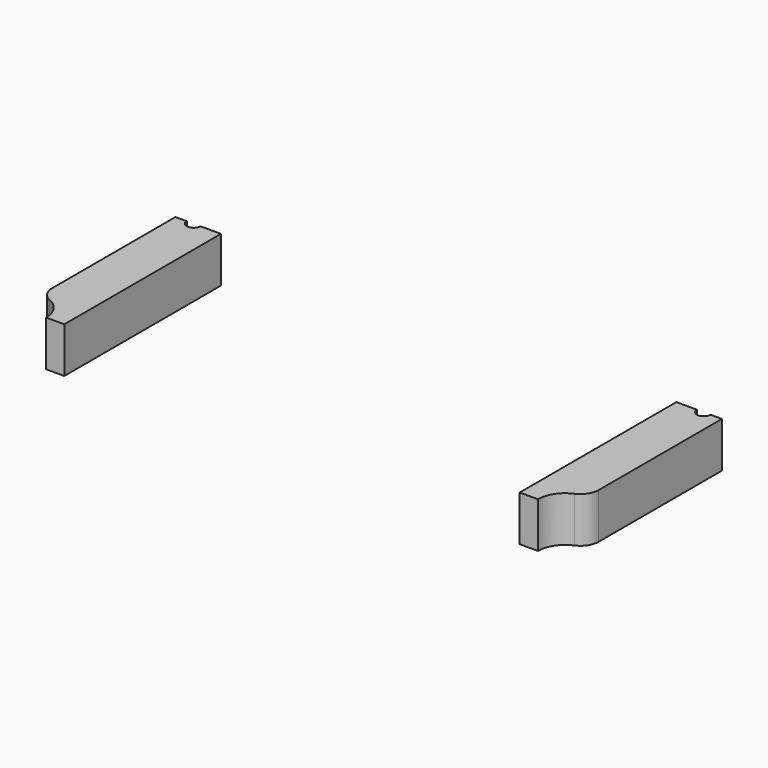
from build123d import *

# Parameters (mm, degrees)
CYLINDER895_R               = 6
CYLINDER895_DEPTH           = 10
CYLINDER889_R               = 6
CYLINDER889_DEPTH           = 10
CYLINDER899_R               = 1.5
CYLINDER899_DEPTH           = 20
CYLINDER899_PLACEMENT_ANGLE = 45
CYLINDER892_R               = 1.5
CYLINDER892_DEPTH           = 20
CYLINDER886_R               = 1.5
CYLINDER886_DEPTH           = 20
CYLINDER886_PLACEMENT_ANGLE = 135
CYLINDER893_R               = 1.5
CYLINDER893_DEPTH           = 20
CYLINDER891_R               = 1.5
CYLINDER891_DEPTH           = 20
CYLINDER891_PLACEMENT_ANGLE = 225
CYLINDER894_R               = 1.5
CYLINDER894_DEPTH           = 20
CYLINDER890_R               = 1.5
CYLINDER890_DEPTH           = 20
CYLINDER890_PLACEMENT_ANGLE = 45
CYLINDER887_R               = 1.5
CYLINDER887_DEPTH           = 20
BOX400_W                    = 10
BOX400_H                    = 43
BOX400_DEPTH                = 10
BOX405_W                    = 10
BOX405_H                    = 43
BOX405_DEPTH                = 10
FILLET015_R                 = 4


with BuildPart() as obj1:
    # Cylinder895 → Cylinder895 (new body)
    with BuildSketch(Plane(origin=(-60, -43, 10), x_dir=(1, 0, 0), z_dir=(0, 0, 1))):
        Circle(CYLINDER895_R)
    extrude(amount=CYLINDER895_DEPTH)


with BuildPart() as compound777:
    # Cylinder889 → Cylinder889 (new body)
    with BuildSketch(Plane(origin=(60, -43, 10), x_dir=(1, 0, 0), z_dir=(0, 0, 1))):
        Circle(CYLINDER889_R)
    extrude(amount=CYLINDER889_DEPTH)

    # Compound777: union obj1
    add(obj1.part)


with BuildPart() as obj2:
    # Cylinder899 → Cylinder899 (new body)
    with BuildSketch(Plane.XY):
        Circle(CYLINDER899_R)
    extrude(amount=CYLINDER899_DEPTH)


with BuildPart() as obj2_1:
    # Cylinder899 placement: moved
    add(obj2.part.moved(Location((39.59798, -39.59798, 2))).rotate(Axis((39.59798, -39.59798, 2), (0, 0, 1)), CYLINDER899_PLACEMENT_ANGLE))


with BuildPart() as obj3:
    # Cylinder892 → Cylinder892 (new body)
    with BuildSketch(Plane(origin=(56, 0, 2), x_dir=(0, 1, 0), z_dir=(0, 0, 1))):
        Circle(CYLINDER892_R)
    extrude(amount=CYLINDER892_DEPTH)


with BuildPart() as obj4:
    # Cylinder886 → Cylinder886 (new body)
    with BuildSketch(Plane.XY):
        Circle(CYLINDER886_R)
    extrude(amount=CYLINDER886_DEPTH)


with BuildPart() as obj4_1:
    # Cylinder886 placement: moved
    add(obj4.part.moved(Location((39.59798, 39.59798, 2))).rotate(Axis((39.59798, 39.59798, 2), (0, 0, 1)), CYLINDER886_PLACEMENT_ANGLE))


with BuildPart() as obj5:
    # Cylinder893 → Cylinder893 (new body)
    with BuildSketch(Plane(origin=(0, 56, 2), x_dir=(-1, 0, 0), z_dir=(0, 0, 1))):
        Circle(CYLINDER893_R)
    extrude(amount=CYLINDER893_DEPTH)


with BuildPart() as obj6:
    # Cylinder891 → Cylinder891 (new body)
    with BuildSketch(Plane.XY):
        Circle(CYLINDER891_R)
    extrude(amount=CYLINDER891_DEPTH)


with BuildPart() as obj6_1:
    # Cylinder891 placement: moved
    add(obj6.part.moved(Location((-39.59798, 39.59798, 2))).rotate(Axis((-39.59798, 39.59798, 2), (0, 0, 1)), CYLINDER891_PLACEMENT_ANGLE))


with BuildPart() as obj7:
    # Cylinder894 → Cylinder894 (new body)
    with BuildSketch(Plane(origin=(-56, 0, 2), x_dir=(0, -1, 0), z_dir=(0, 0, 1))):
        Circle(CYLINDER894_R)
    extrude(amount=CYLINDER894_DEPTH)


with BuildPart() as obj8:
    # Cylinder890 → Cylinder890 (new body)
    with BuildSketch(Plane.XY):
        Circle(CYLINDER890_R)
    extrude(amount=CYLINDER890_DEPTH)


with BuildPart() as obj8_1:
    # Cylinder890 placement: moved
    add(obj8.part.moved(Location((-39.59798, -39.59798, 2))).rotate(Axis((-39.59798, -39.59798, 2), (0, 0, -1)), CYLINDER890_PLACEMENT_ANGLE))


with BuildPart() as compound776:
    # Cylinder887 → Cylinder887 (new body)
    with BuildSketch(Plane(origin=(0, -56, 2), x_dir=(1, 0, 0), z_dir=(0, 0, 1))):
        Circle(CYLINDER887_R)
    extrude(amount=CYLINDER887_DEPTH)

    # Compound776: union obj2, obj3, obj4, obj5, obj6, obj7, obj8
    add(obj2_1.part)
    add(obj3.part)
    add(obj4_1.part)
    add(obj5.part)
    add(obj6_1.part)
    add(obj7.part)
    add(obj8_1.part)


with BuildPart() as krychle400:
    # Box400 → Box400 (new body)
    with BuildSketch(Plane(origin=(50, -43, 10), x_dir=(1, 0, 0), z_dir=(0, 0, 1))):
        with Locations((5, 21.5)):
            Rectangle(BOX400_W, BOX400_H)
    extrude(amount=BOX400_DEPTH)


with BuildPart() as fillet015:
    # Box405 → Box405 (new body)
    with BuildSketch(Plane(origin=(-60, -43, 10), x_dir=(1, 0, 0), z_dir=(0, 0, 1))):
        with Locations((5, 21.5)):
            Rectangle(BOX405_W, BOX405_H)
    extrude(amount=BOX405_DEPTH)

    # Compound778: union Krychle400
    add(krychle400.part)

    # Cut405: cut Compound776
    add(compound776.part, mode=Mode.SUBTRACT)

    # Cut406: cut Compound777
    add(compound777.part, mode=Mode.SUBTRACT)

    # Fillet015
    fillet015_edges = [fillet015.edges().sort_by_distance(p)[0] for p in [
        (-60, -37, 15),
        (60, -37, 15),
    ]]
    fillet(fillet015_edges, radius=FILLET015_R)


solid = fillet015.part
